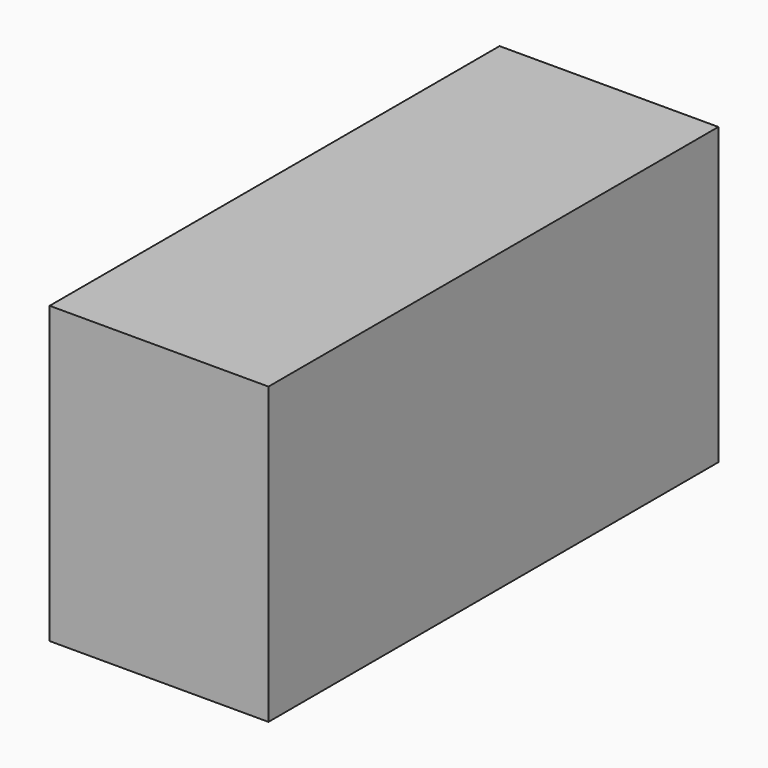
from build123d import *

# Parameters (mm, degrees)
F2_W     = 564.836025238
F2_H     = 1451.6293406487
F5_DEPTH = 762


with BuildPart() as f5:
    # F2 (on face) → F5 (new body)
    with BuildSketch(Plane.XY):
        with Locations((3809.1728687286, -1357.4973642826)):
            Rectangle(F2_W, F2_H)
    extrude(amount=F5_DEPTH)


solid = f5.part
